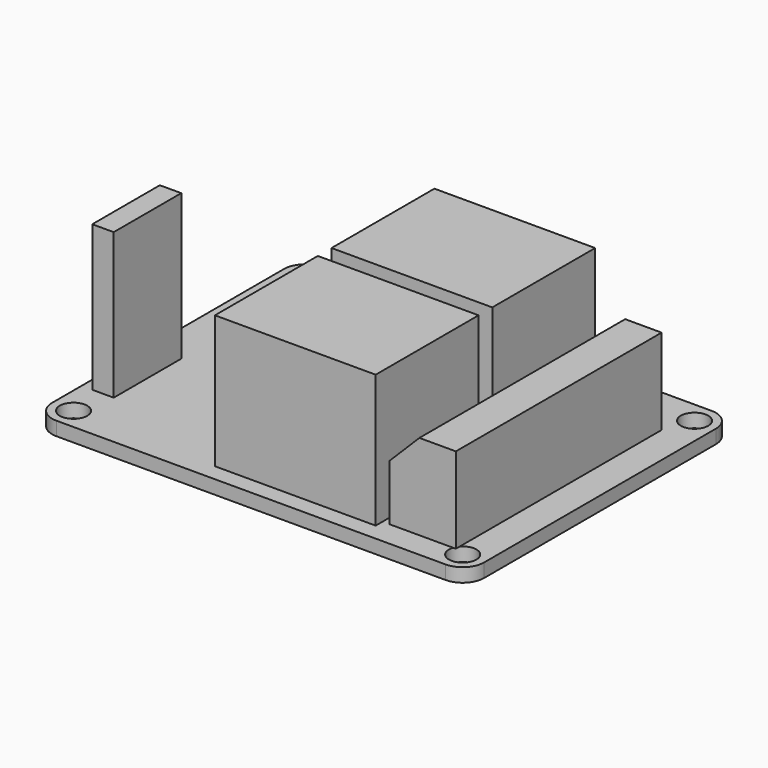
from build123d import *

# Parameters (mm, degrees)
F0_W      = 50.4
F0_H      = 38.8
F1_DEPTH  = 1.6
F2_W      = 18.75
F2_H      = 15
F3_DEPTH  = 15.5
F4_W      = 7.75
F4_H      = 30
F5_DEPTH  = 10
F6_SIZE2  = 3.5
F6_SIZE   = 3.5
F7_W      = 2.5
F7_H      = 9.85
F8_DEPTH  = 17
F9_R      = 2.5
F10_R     = 1.6
F11_DEPTH = 1.601


with BuildPart() as f1:
    # F0 (on Top) → F1 (new body)
    with BuildSketch(Plane.XY):
        Rectangle(F0_W, F0_H)
    extrude(amount=F1_DEPTH)

    # F2 (on face) → F3 (join)
    with BuildSketch(Plane.XY.offset(1.6)):
        with Locations((3.575, -9.9)):
            Rectangle(F2_W, F2_H)
        with Locations((3.575, 7.1)):
            Rectangle(F2_W, F2_H)
    extrude(amount=F3_DEPTH)

    # F4 (on face) → F5 (join)
    with BuildSketch(Plane.XY.offset(1.6)):
        with Locations((17.625, -1.4)):
            Rectangle(F4_W, F4_H)
    extrude(amount=F5_DEPTH)

    # F6
    f6_edges = [f1.edges().sort_by_distance(p)[0] for p in [
        (13.75, -1.4, 11.6),
    ]]
    chamfer(f6_edges, length=F6_SIZE, length2=F6_SIZE2)

    # F7 (on face) → F8 (join)
    with BuildSketch(Plane.XY.offset(1.6)):
        with Locations((-22.7, -7.675)):
            Rectangle(F7_W, F7_H)
    extrude(amount=F8_DEPTH)

    # F9
    f9_edges = [f1.edges().sort_by_distance(p)[0] for p in [
        (-25.2, 19.4, 0.8),
        (25.2, 19.4, 0.8),
        (25.2, -19.4, 0.8),
        (-25.2, -19.4, 0.8),
    ]]
    fillet(f9_edges, radius=F9_R)

    # F10 (on face) → F11 (cut, through all)
    with BuildSketch(Plane.XY.offset(1.6)):
        with Locations((-22.7, 16.9)):
            Circle(F10_R)
        with Locations((22.7, 16.9)):
            Circle(F10_R)
        with Locations((22.7, -16.9)):
            Circle(F10_R)
        with Locations((-22.7, -16.9)):
            Circle(F10_R)
    extrude(amount=-F11_DEPTH, mode=Mode.SUBTRACT)


solid = f1.part
